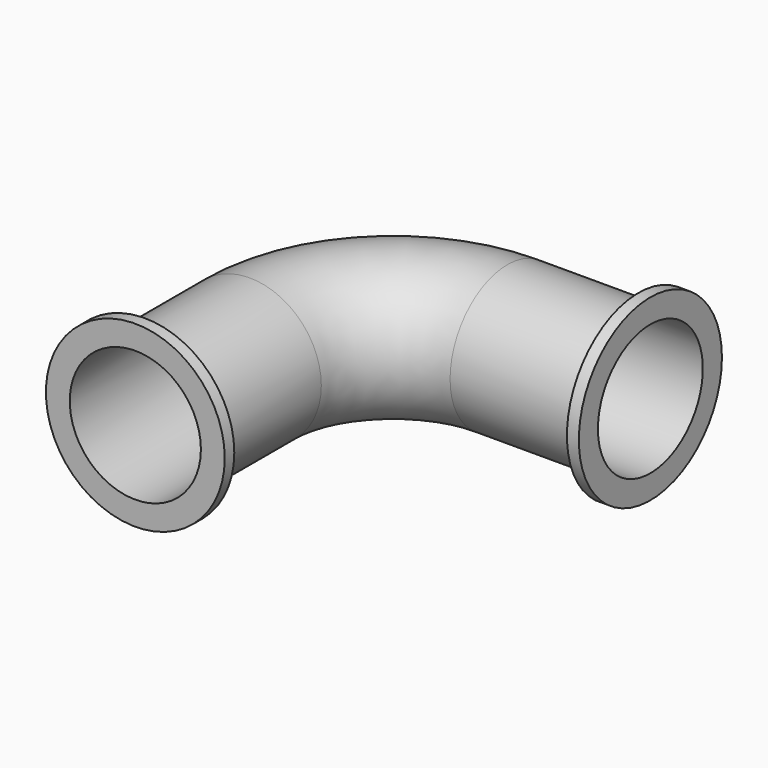
from build123d import *

# Parameters (mm, degrees)
F0_R     = 76.2
F3_T     = -6.35
F0_R_2   = 95.25
F4_DEPTH = 12.7
F6_R     = 95.25
F6_R_2   = 76.2
F7_DEPTH = 12.7


with BuildPart() as f2:
    # F2: sweep along a path in F1
    with BuildLine(Plane.XY) as f2_path:
        Line((0, 0), (0, 152.4))
        ThreePointArc((0, 152.4), (44.6369265472, 260.1630734528), (152.4, 304.8))
        Line((152.4, 304.8), (304.8, 304.8))
    # F0 (on Front) → F2 (sweep)
    with BuildSketch(Plane.XZ):
        Circle(F0_R)
    sweep(path=f2_path.line)

    # F3
    f3_openings = [f2.faces().sort_by_distance(p)[0] for p in [
        (0, 0, 0),
        (304.8, 304.8, 0),
    ]]
    offset(amount=F3_T, openings=f3_openings)

    # F0 (on Front) → F4 (join)
    with BuildSketch(Plane.XZ):
        Circle(F0_R_2)
        Circle(F0_R, mode=Mode.SUBTRACT)
    extrude(amount=-F4_DEPTH)

    # F6 (on line) → F7 (join)
    with BuildSketch(Plane.YZ.offset(304.8)):
        with Locations((304.8, 0)):
            Circle(F6_R)
        with Locations((304.8, 0)):
            Circle(F6_R_2, mode=Mode.SUBTRACT)
    extrude(amount=-F7_DEPTH)


solid = f2.part
